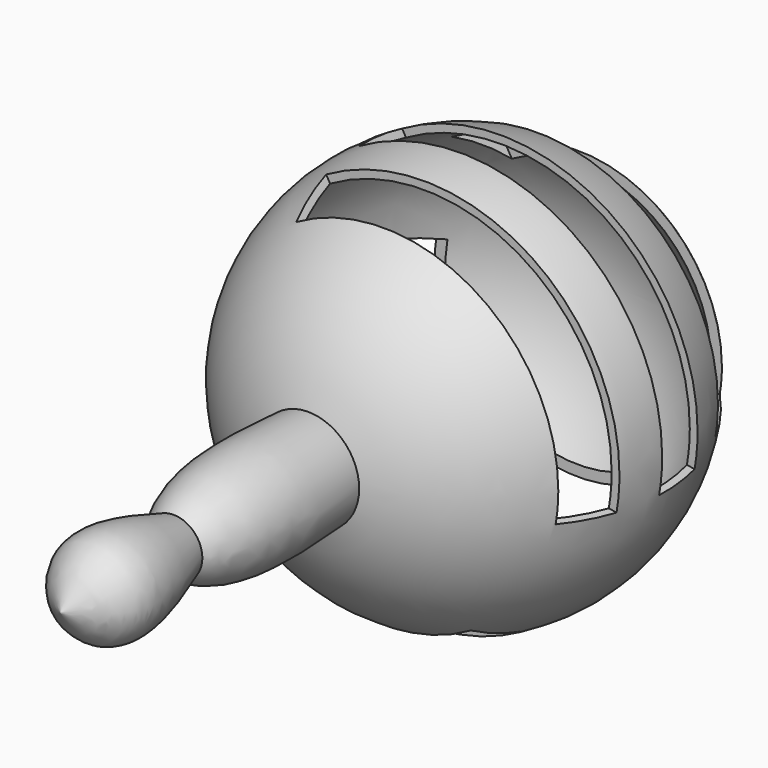
from build123d import *

# Parameters (mm, degrees)
F2_W          = 10
F2_H          = 40.9751456603
F2_H_2        = 40.5007522926
F2_H_3        = 48.8629518077
F2_H_4        = 48.3885584399
F3_ANGLE_BACK = 30
F3_ANGLE      = 130


with BuildPart() as f1:
    # F0 (on Top) → F1 (revolve)
    with BuildSketch(Plane.XY):
        with BuildLine():
            Line((0, -5.3900609016), (0, -6.8900609016))
            ThreePointArc((0, -6.8900609016), (5.088690105, -6.5650559617), (10.0946877388, -5.5953225524))
            ThreePointArc((10.0946877388, -5.5953225524), (39.6749950601, 38.1986292033), (0, 73.1099390984))
            Line((0, 73.1099390984), (0, 71.6099390984))
            ThreePointArc((0, 71.6099390984), (38.5, 33.1099390984), (0, -5.3900609016))
        make_face()
        with BuildLine():
            ThreePointArc((10.0946877388, -5.5953225524), (5.088690105, -6.5650559617), (0, -6.8900609016))
            Line((0, -6.8900609016), (0, -44.005764341))
            add(Edge.make_bspline(
                [(5.6927716359, -38.9006026089), (4.1909450972, -40.899205285), (2.2564479626, -42.5732448492), (0, -44.005764341)],
                knots=[0.4997220565, 0.4997220565, 0.4997220565, 0.4997220565, 0.6276918284, 0.6276918284, 0.6276918284, 0.6276918284], degree=3))
            add(Edge.make_bspline(
                [(10.0946877388, -5.5953225524), (10.8242318842, -18.3422397346), (11.5574054113, -31.0960576393), (5.6927716359, -38.9006026089)],
                knots=[0, 0, 0, 0, 0.4997220565, 0.4997220565, 0.4997220565, 0.4997220565], degree=3))
        make_face()
        with BuildLine():
            add(Edge.make_bspline(
                [(5.6927716359, -38.9006026089), (4.1909450972, -40.899205285), (2.2564479626, -42.5732448492), (0, -44.005764341)],
                knots=[0.4997220565, 0.4997220565, 0.4997220565, 0.4997220565, 0.6276918284, 0.6276918284, 0.6276918284, 0.6276918284], degree=3))
            Line((0, -44.005764341), (0, -66.8900609016))
            add(Edge.make_bspline(
                [(5.6927716359, -38.9006026089), (8.1644054547, -46.1912815153), (12.5966672991, -59.2653047345), (3.8632573747, -64.5516332212), (0, -66.8900609016)],
                knots=[0, 0, 0, 0, 0.5576461648, 1, 1, 1, 1], degree=3))
        make_face()
    revolve(axis=Axis((0, -36.8900609016, 0), (0, -1, 0)))

    # F2 (on Right) → F3 (revolve, cut)
    with BuildSketch(Plane.YZ, mode=Mode.PRIVATE) as f3_sk:
        with Locations((18.0459368229, 30.2127234824)):
            Rectangle(F2_W, F2_H)
        with Locations((37.0218391716, 30.2127234824)):
            Rectangle(F2_W, F2_H)
        with Locations((56.2349456549, 29.9755267985)):
            Rectangle(F2_W, F2_H_2)
        with Locations((56.2349456549, -35.3426211514)):
            Rectangle(F2_W, F2_H_3)
        with Locations((37.0218391716, -35.1054244675)):
            Rectangle(F2_W, F2_H_4)
        with Locations((18.0459368229, -35.1054244675)):
            Rectangle(F2_W, F2_H_4)
    revolve(f3_sk.sketch.rotate(Axis((0, 36.6472154856, 0), (0, 1, 0)), -F3_ANGLE_BACK), axis=Axis((0, 36.6472154856, 0), (0, 1, 0)), revolution_arc=F3_ANGLE, mode=Mode.SUBTRACT)


with BuildPart() as f5:
    # F4 (on Top) → F5 (revolve)
    with BuildSketch(Plane.XY):
        with BuildLine():
            Line((-6.9040553644, 24.052888155), (-6.9040553644, 16.552888155))
            ThreePointArc((-6.9040553644, 16.552888155), (0.5959446356, 24.052888155), (-6.9040553644, 31.552888155))
            Line((-6.9040553644, 31.552888155), (-6.9040553644, 24.052888155))
        make_face()
    revolve(axis=Axis((-6.9040553644, 27.802888155, 0), (0, 1, 0)))


solid = Compound([f1.part, f5.part])
